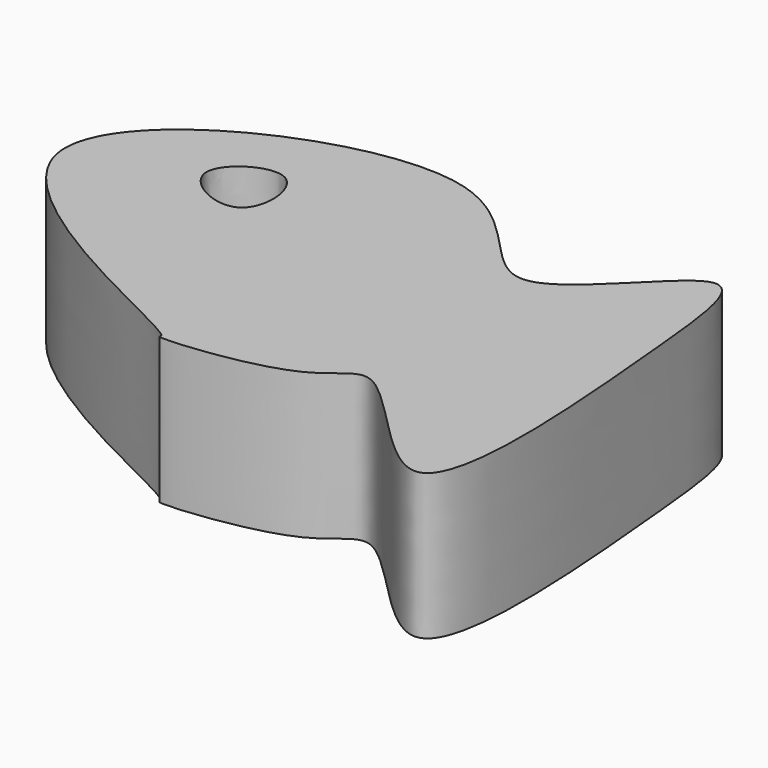
from build123d import *

# Parameters (mm, degrees)
F1_DEPTH = 25.4


with BuildPart() as f1:
    # F0 (on Top) → F1 (new body)
    with BuildSketch(Plane.XY):
        with BuildLine():
            add(Edge.make_bspline(
                [(-61.2360201776, 11.6448896006), (-64.4417155869, 27.210102305), (-5.7674847912, 55.0258628942), (8.8621594649, 8.8230411823), (35.3311768583, 48.6073796724), (38.4589973221, 16.8294529813), (44.5854696607, -51.7086076148), (12.6963504151, -6.8993492823), (7.7463000238, -20.2132818128), (-18.0553776566, -22.4524119589), (-14.4712673763, -20.1405019361), (-58.0395162079, -3.8756941874), (-61.2360201776, 11.6448896006)],
                knots=[0, 0, 0, 0, 0.1473832297, 0.2546325302, 0.3537705066, 0.4452309684, 0.5823871159, 0.6863244483, 0.747822162, 0.8405294016, 0.8530393507, 1, 1, 1, 1], degree=3))
        make_face()
        with BuildLine():
            add(Edge.make_bspline(
                [(-41.9617332518, 20.0773905963), (-41.7760077975, 16.4042641251), (-28.3778482467, 9.4436964757), (-29.9138629159, 31.1615148593), (-42.1432851754, 23.6679763837), (-41.9617332518, 20.0773905963)],
                knots=[0, 0, 0, 0, 0.3380956956, 0.6695018239, 1, 1, 1, 1], degree=3))
        make_face(mode=Mode.SUBTRACT)
    extrude(amount=F1_DEPTH)


solid = f1.part
